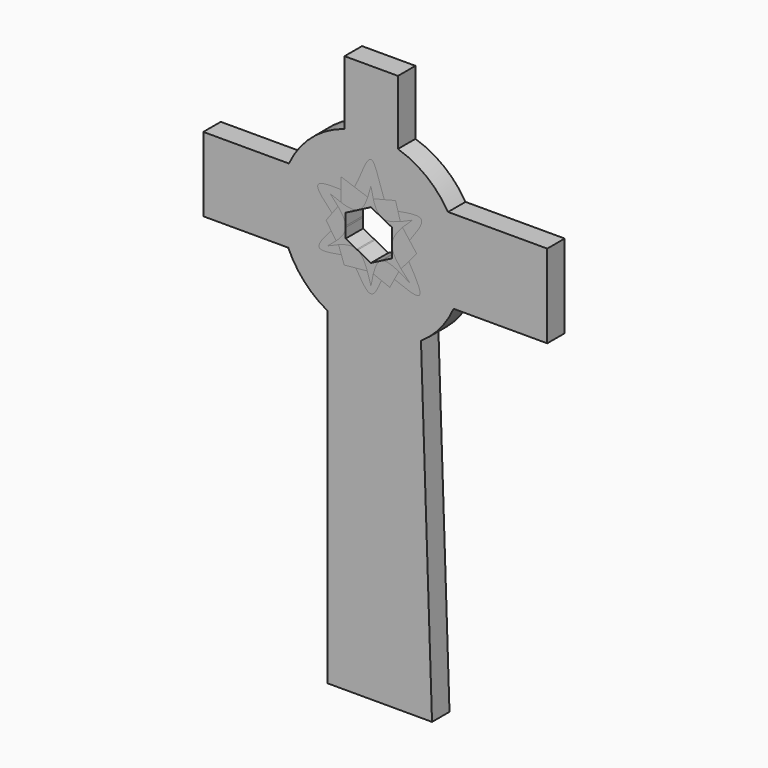
from build123d import *

# Parameters (mm, degrees)
F1_DEPTH = 25.4
F2_DEPTH = 25.4
F3_DEPTH = 25.4
F4_DEPTH = 25.4
F5_DEPTH = 25.4
F6_DEPTH = 25.4


with BuildPart() as f1:
    # F0 (on Front) → F1 (new body)
    with BuildSketch(Plane.XZ):
        with BuildLine():
            add(Edge.make_bspline(
                [(-14.3541514897, 22.9528504084), (-14.4686807611, 22.8912923505), (-14.5841696294, 22.8316425943), (-14.7006325424, 22.7739298716)],
                knots=[0.4904136103, 0.4904136103, 0.4904136103, 0.4904136103, 0.4977973905, 0.4977973905, 0.4977973905, 0.4977973905], degree=3))
            Line((-14.3541514897, 22.9528504084), (-14.7006325424, 22.7739298716))
        make_face()
    extrude(amount=F1_DEPTH)


with BuildPart() as f2:
    # F0 (on Front) → F2 (new body)
    with BuildSketch(Plane.XZ):
        with BuildLine():
            Line((-29.4012650847, 15.1826199144), (-14.7006325424, 22.7739298716))
            add(Edge.make_bspline(
                [(-14.7006325424, 22.7739298716), (-19.9444261162, 20.1753893006), (-27.1628908306, 21.5037773556), (-35.0487951516, 24.1594687999)],
                knots=[0.4977973905, 0.4977973905, 0.4977973905, 0.4977973905, 0.8302553244, 0.8302553244, 0.8302553244, 0.8302553244], degree=3))
            add(Edge.make_bspline(
                [(-35.0487951516, 24.1594687999), (-39.0751399435, 25.5153981874), (-43.2754773814, 27.21733795), (-47.4758148193, 28.9192777127)],
                knots=[0.8302553244, 0.8302553244, 0.8302553244, 0.8302553244, 1, 1, 1, 1], degree=3))
            Line((-47.4758148193, 28.9192777127), (-29.4012650847, 15.1826199144))
        make_face()
        with BuildLine():
            Line((-29.4012650847, 1.6883769382), (-29.4012650847, 15.1826199144))
            Line((-29.4012650847, 15.1826199144), (-47.4758148193, 28.9192777127))
            add(Edge.make_bspline(
                [(-47.4758148193, 28.9192777127), (-44.2861309223, 25.5435309565), (-41.0964470253, 22.1677842002), (-38.3029241266, 18.8206944698)],
                knots=[0, 0, 0, 0, 0.1717578247, 0.1717578247, 0.1717578247, 0.1717578247], degree=3))
            add(Edge.make_bspline(
                [(-38.3029241266, 18.8206944698), (-33.4210481018, 12.9714218129), (-29.7490477341, 7.2096677105), (-29.4012650847, 1.6883769382)],
                knots=[0.1717578247, 0.1717578247, 0.1717578247, 0.1717578247, 0.4719165981, 0.4719165981, 0.4719165981, 0.4719165981], degree=3))
        make_face()
    extrude(amount=F2_DEPTH)


with BuildPart() as f2b:
    # F0 (on Front) → F2, piece 2 (new body)
    with BuildSketch(Plane.XZ):
        with BuildLine():
            Line((-14.3541514897, 22.9528504084), (0, 30.3652398288))
            Line((0, 30.3652398288), (0, 52.0546995103))
            add(Edge.make_bspline(
                [(0, 52.0546995103), (-1.1650013965, 47.7359081555), (-2.330002793, 43.4171168006), (-3.6693131497, 39.4449648589)],
                knots=[0, 0, 0, 0, 0.1693493954, 0.1693493954, 0.1693493954, 0.1693493954], degree=3))
            add(Edge.make_bspline(
                [(-3.6693131497, 39.4449648589), (-6.2084697081, 31.9142863992), (-9.3741481087, 25.6295402402), (-14.3541514897, 22.9528504084)],
                knots=[0.1693493954, 0.1693493954, 0.1693493954, 0.1693493954, 0.4904136103, 0.4904136103, 0.4904136103, 0.4904136103], degree=3))
        make_face()
        with BuildLine():
            Line((0, 52.0546995103), (0, 30.3652398288))
            Line((0, 30.3652398288), (11.9434328738, 24.1674610285))
            add(Edge.make_bspline(
                [(11.9434328738, 24.1674610285), (7.3307553997, 26.678976369), (4.6895163407, 32.6808245186), (2.7317281674, 39.8926881733)],
                knots=[0.5312967327, 0.5312967327, 0.5312967327, 0.5312967327, 0.8375117068, 0.8375117068, 0.8375117068, 0.8375117068], degree=3))
            add(Edge.make_bspline(
                [(2.7317281674, 39.8926881733), (1.692857813, 43.719553333), (0.8464289065, 47.8871264217), (0, 52.0546995103)],
                knots=[0.8375117068, 0.8375117068, 0.8375117068, 0.8375117068, 1, 1, 1, 1], degree=3))
        make_face()
    extrude(amount=F2_DEPTH)


with BuildPart() as f2c:
    # F0 (on Front) → F2, piece 3 (new body)
    with BuildSketch(Plane.XZ):
        with BuildLine():
            add(Edge.make_bspline(
                [(34.2077691655, 26.6563102377), (25.4806952544, 23.2378498819), (17.620886364, 21.3548387355), (12.3067991856, 23.9789001644)],
                knots=[0.1782907306, 0.1782907306, 0.1782907306, 0.1782907306, 0.5233447369, 0.5233447369, 0.5233447369, 0.5233447369], degree=3))
            Line((12.3067991856, 23.9789001644), (24.6135983711, 17.5925604999))
            Line((24.6135983711, 17.5925604999), (48.1987968087, 32.775182277))
            add(Edge.make_bspline(
                [(48.1987968087, 32.775182277), (43.4579392958, 30.5989120567), (38.7170817828, 28.4226418365), (34.2077691655, 26.6563102377)],
                knots=[0, 0, 0, 0, 0.1782907306, 0.1782907306, 0.1782907306, 0.1782907306], degree=3))
        make_face()
        with BuildLine():
            Line((48.1987968087, 32.775182277), (24.6135983711, 17.5925604999))
            Line((24.6135983711, 17.5925604999), (24.6135983711, 0))
            add(Edge.make_bspline(
                [(24.6135983711, 0), (24.82150376, 7.259912527), (29.9488979857, 14.4628240646), (36.7526425482, 21.6463121151)],
                knots=[0.4942301209, 0.4942301209, 0.4942301209, 0.4942301209, 0.8276553652, 0.8276553652, 0.8276553652, 0.8276553652], degree=3))
            add(Edge.make_bspline(
                [(36.7526425482, 21.6463121151), (40.2694394684, 25.3593951712), (44.2341181386, 29.0672887241), (48.1987968087, 32.775182277)],
                knots=[0.8276553652, 0.8276553652, 0.8276553652, 0.8276553652, 1, 1, 1, 1], degree=3))
        make_face()
    extrude(amount=F2_DEPTH)


with BuildPart() as f2d:
    # F0 (on Front) → F2, piece 4 (new body)
    with BuildSketch(Plane.XZ):
        with BuildLine():
            add(Edge.make_bspline(
                [(35.0042778288, -21.4152859602), (29.1731486489, -14.5593156815), (24.8060536411, -7.720308831), (24.6135983711, -0.9296725743)],
                knots=[0.1683355047, 0.1683355047, 0.1683355047, 0.1683355047, 0.4800025168, 0.4800025168, 0.4800025168, 0.4800025168], degree=3))
            Line((24.6135983711, -0.9296725743), (24.6135983711, -14.040031432))
            Line((24.6135983711, -14.040031432), (45.3068725765, -32.534185797))
            add(Edge.make_bspline(
                [(45.3068725765, -32.534185797), (41.7303104737, -28.8262363141), (38.153748371, -25.1182868311), (35.0042778288, -21.4152859602)],
                knots=[0, 0, 0, 0, 0.1683355047, 0.1683355047, 0.1683355047, 0.1683355047], degree=3))
        make_face()
        with BuildLine():
            Line((45.3068725765, -32.534185797), (24.6135983711, -14.040031432))
            Line((24.6135983711, -14.040031432), (12.3067991856, -20.3951815883))
            add(Edge.make_bspline(
                [(12.3067991856, -20.3951815883), (17.285669054, -18.2054166072), (24.4926682322, -20.8035214645), (32.4619454299, -25.0396317651)],
                knots=[0.4897788647, 0.4897788647, 0.4897788647, 0.4897788647, 0.8254453389, 0.8254453389, 0.8254453389, 0.8254453389], degree=3))
            add(Edge.make_bspline(
                [(32.4619454299, -25.0396317651), (36.6061617493, -27.2425112739), (40.9565171629, -29.8883485354), (45.3068725765, -32.534185797)],
                knots=[0.8254453389, 0.8254453389, 0.8254453389, 0.8254453389, 1, 1, 1, 1], degree=3))
        make_face()
    extrude(amount=F2_DEPTH)


with BuildPart() as f2e:
    # F0 (on Front) → F2, piece 5 (new body)
    with BuildSketch(Plane.XZ):
        with BuildLine():
            add(Edge.make_bspline(
                [(2.7670513015, -37.0754344111), (4.6546604564, -29.5784432766), (7.1527679539, -23.3933089485), (11.361242188, -20.8834610028)],
                knots=[0.1670125865, 0.1670125865, 0.1670125865, 0.1670125865, 0.4679009795, 0.4679009795, 0.4679009795, 0.4679009795], degree=3))
            Line((11.361242188, -20.8834610028), (0, -26.7503317446))
            Line((0, -26.7503317446), (0, -50.3677427769))
            add(Edge.make_bspline(
                [(0, -50.3677427769), (0.8596528553, -45.8022469195), (1.7193057105, -41.2367510621), (2.7670513015, -37.0754344111)],
                knots=[0, 0, 0, 0, 0.1670125865, 0.1670125865, 0.1670125865, 0.1670125865], degree=3))
        make_face()
        with BuildLine():
            Line((0, -26.7503317446), (-15.5185673604, -18.6094434251))
            add(Edge.make_bspline(
                [(-15.5185673604, -18.6094434251), (-10.4321918885, -21.5697741686), (-7.0410781826, -28.2569110209), (-4.2533897312, -36.2705975361)],
                knots=[0.5150559291, 0.5150559291, 0.5150559291, 0.5150559291, 0.8273850651, 0.8273850651, 0.8273850651, 0.8273850651], degree=3))
            add(Edge.make_bspline(
                [(-4.2533897312, -36.2705975361), (-2.7127180324, -40.6995214394), (-1.3563590162, -45.5336321081), (0, -50.3677427769)],
                knots=[0.8273850651, 0.8273850651, 0.8273850651, 0.8273850651, 1, 1, 1, 1], degree=3))
            Line((0, -50.3677427769), (0, -26.7503317446))
        make_face()
    extrude(amount=F2_DEPTH)


with BuildPart() as f2f:
    # F0 (on Front) → F2, piece 6 (new body)
    with BuildSketch(Plane.XZ):
        with BuildLine():
            Line((-16.4913525108, -18.0991298708), (-29.4012650847, -11.3267162815))
            Line((-29.4012650847, -11.3267162815), (-50.6087355316, -25.7863570005))
            add(Edge.make_bspline(
                [(-50.6087355316, -25.7863570005), (-46.2356342425, -23.8075734863), (-41.8625329534, -21.8287899721), (-37.6643158083, -20.234465843)],
                knots=[0, 0, 0, 0, 0.1686177438, 0.1686177438, 0.1686177438, 0.1686177438], degree=3))
            add(Edge.make_bspline(
                [(-37.6643158083, -20.234465843), (-29.5242642973, -17.1431820701), (-22.0416812802, -15.4972547894), (-16.4913525108, -18.0991298708)],
                knots=[0.1686177438, 0.1686177438, 0.1686177438, 0.1686177438, 0.4955558398, 0.4955558398, 0.4955558398, 0.4955558398], degree=3))
        make_face()
        with BuildLine():
            Line((-29.4012650847, -11.3267162815), (-29.4012650847, 0))
            add(Edge.make_bspline(
                [(-29.4012650847, 0), (-29.7891119056, -5.9736979278), (-34.3991082596, -11.6419789958), (-40.4486888433, -17.2061251223)],
                knots=[0.5026522156, 0.5026522156, 0.5026522156, 0.5026522156, 0.8304242847, 0.8304242847, 0.8304242847, 0.8304242847], degree=3))
            add(Edge.make_bspline(
                [(-40.4486888433, -17.2061251223), (-43.5784916887, -20.0847842521), (-47.0936136101, -22.9355706263), (-50.6087355316, -25.7863570005)],
                knots=[0.8304242847, 0.8304242847, 0.8304242847, 0.8304242847, 1, 1, 1, 1], degree=3))
            Line((-50.6087355316, -25.7863570005), (-29.4012650847, -11.3267162815))
        make_face()
    extrude(amount=F2_DEPTH)


with BuildPart() as f3:
    # F0 (on Front) → F3 (new body)
    with BuildSketch(Plane.XZ):
        with BuildLine():
            Line((-14.7006325424, 22.7739298716), (-14.3541514897, 22.9528504084))
            add(Edge.make_bspline(
                [(-3.6693131497, 39.4449648589), (-6.2084697081, 31.9142863992), (-9.3741481087, 25.6295402402), (-14.3541514897, 22.9528504084)],
                knots=[0.1693493954, 0.1693493954, 0.1693493954, 0.1693493954, 0.4904136103, 0.4904136103, 0.4904136103, 0.4904136103], degree=3))
            Line((-3.6693131497, 39.4449648589), (-19.2366406388, 44.863743312))
            Line((-19.2366406388, 44.863743312), (-35.0487951516, 50.3677427769))
            Line((-35.0487951516, 50.3677427769), (-35.0487951516, 37.1258507452))
            Line((-35.0487951516, 37.1258507452), (-35.0487951516, 24.1594687999))
            add(Edge.make_bspline(
                [(-14.7006325424, 22.7739298716), (-19.9444261162, 20.1753893006), (-27.1628908306, 21.5037773556), (-35.0487951516, 24.1594687999)],
                knots=[0.4977973905, 0.4977973905, 0.4977973905, 0.4977973905, 0.8302553244, 0.8302553244, 0.8302553244, 0.8302553244], degree=3))
        make_face()
    extrude(amount=F3_DEPTH)


with BuildPart() as f3b:
    # F0 (on Front) → F3, piece 2 (new body)
    with BuildSketch(Plane.XZ):
        with BuildLine():
            add(Edge.make_bspline(
                [(11.9434328738, 24.1674610285), (7.3307553997, 26.678976369), (4.6895163407, 32.6808245186), (2.7317281674, 39.8926881733)],
                knots=[0.5312967327, 0.5312967327, 0.5312967327, 0.5312967327, 0.8375117068, 0.8375117068, 0.8375117068, 0.8375117068], degree=3))
            Line((11.9434328738, 24.1674610285), (12.3067991856, 23.9789001644))
            add(Edge.make_bspline(
                [(34.2077691655, 26.6563102377), (25.4806952544, 23.2378498819), (17.620886364, 21.3548387355), (12.3067991856, 23.9789001644)],
                knots=[0.1782907306, 0.1782907306, 0.1782907306, 0.1782907306, 0.5233447369, 0.5233447369, 0.5233447369, 0.5233447369], degree=3))
            Line((34.2077691655, 26.6563102377), (31.4805155873, 36.4494577728))
            Line((31.4805155873, 36.4494577728), (28.678284958, 46.51183635))
            Line((28.678284958, 46.51183635), (15.5806312819, 43.1705332573))
            Line((15.5806312819, 43.1705332573), (2.7317281674, 39.8926881733))
        make_face()
    extrude(amount=F3_DEPTH)


with BuildPart() as f3c:
    # F0 (on Front) → F3, piece 3 (new body)
    with BuildSketch(Plane.XZ):
        with BuildLine():
            add(Edge.make_bspline(
                [(24.6135983711, 0), (24.82150376, 7.259912527), (29.9488979857, 14.4628240646), (36.7526425482, 21.6463121151)],
                knots=[0.4942301209, 0.4942301209, 0.4942301209, 0.4942301209, 0.8276553652, 0.8276553652, 0.8276553652, 0.8276553652], degree=3))
            Line((24.6135983711, 0), (24.6135983711, -0.9296725743))
            add(Edge.make_bspline(
                [(35.0042778288, -21.4152859602), (29.1731486489, -14.5593156815), (24.8060536411, -7.720308831), (24.6135983711, -0.9296725743)],
                knots=[0.1683355047, 0.1683355047, 0.1683355047, 0.1683355047, 0.4800025168, 0.4800025168, 0.4800025168, 0.4800025168], degree=3))
            Line((35.0042778288, -21.4152859602), (44.0329095184, -10.8238552272))
            Line((44.0329095184, -10.8238552272), (53.2596707344, 0))
            Line((53.2596707344, 0), (44.9117766353, 10.9469202533))
            Line((44.9117766353, 10.9469202533), (36.7526425482, 21.6463121151))
        make_face()
    extrude(amount=F3_DEPTH)


with BuildPart() as f3d:
    # F0 (on Front) → F3, piece 4 (new body)
    with BuildSketch(Plane.XZ):
        with BuildLine():
            Line((-29.4012650847, 0), (-29.4012650847, 1.6883769382))
            add(Edge.make_bspline(
                [(-38.3029241266, 18.8206944698), (-33.4210481018, 12.9714218129), (-29.7490477341, 7.2096677105), (-29.4012650847, 1.6883769382)],
                knots=[0.1717578247, 0.1717578247, 0.1717578247, 0.1717578247, 0.4719165981, 0.4719165981, 0.4719165981, 0.4719165981], degree=3))
            Line((-38.3029241266, 18.8206944698), (-45.1606447507, 9.520048509))
            Line((-45.1606447507, 9.520048509), (-52.1801392329, 0))
            Line((-52.1801392329, 0), (-46.2396954527, -8.7126498063))
            Line((-46.2396954527, -8.7126498063), (-40.4486888433, -17.2061251223))
            add(Edge.make_bspline(
                [(-29.4012650847, 0), (-29.7891119056, -5.9736979278), (-34.3991082596, -11.6419789958), (-40.4486888433, -17.2061251223)],
                knots=[0.5026522156, 0.5026522156, 0.5026522156, 0.5026522156, 0.8304242847, 0.8304242847, 0.8304242847, 0.8304242847], degree=3))
        make_face()
    extrude(amount=F3_DEPTH)


with BuildPart() as f3e:
    # F0 (on Front) → F3, piece 5 (new body)
    with BuildSketch(Plane.XZ):
        with BuildLine():
            Line((-15.5185673604, -18.6094434251), (-16.4913525108, -18.0991298708))
            add(Edge.make_bspline(
                [(-37.6643158083, -20.234465843), (-29.5242642973, -17.1431820701), (-22.0416812802, -15.4972547894), (-16.4913525108, -18.0991298708)],
                knots=[0.1686177438, 0.1686177438, 0.1686177438, 0.1686177438, 0.4955558398, 0.4955558398, 0.4955558398, 0.4955558398], degree=3))
            Line((-37.6643158083, -20.234465843), (-34.4223591007, -29.5059366823))
            Line((-34.4223591007, -29.5059366823), (-31.0882236809, -39.0410237014))
            Line((-31.0882236809, -39.0410237014), (-17.5260011398, -37.6408609034))
            Line((-17.5260011398, -37.6408609034), (-4.2533897312, -36.2705975361))
            add(Edge.make_bspline(
                [(-15.5185673604, -18.6094434251), (-10.4321918885, -21.5697741686), (-7.0410781826, -28.2569110209), (-4.2533897312, -36.2705975361)],
                knots=[0.5150559291, 0.5150559291, 0.5150559291, 0.5150559291, 0.8273850651, 0.8273850651, 0.8273850651, 0.8273850651], degree=3))
        make_face()
    extrude(amount=F3_DEPTH)


with BuildPart() as f3f:
    # F0 (on Front) → F3, piece 6 (new body)
    with BuildSketch(Plane.XZ):
        with BuildLine():
            add(Edge.make_bspline(
                [(12.3067991856, -20.3951815883), (17.285669054, -18.2054166072), (24.4926682322, -20.8035214645), (32.4619454299, -25.0396317651)],
                knots=[0.4897788647, 0.4897788647, 0.4897788647, 0.4897788647, 0.8254453389, 0.8254453389, 0.8254453389, 0.8254453389], degree=3))
            Line((12.3067991856, -20.3951815883), (11.361242188, -20.8834610028))
            add(Edge.make_bspline(
                [(2.7670513015, -37.0754344111), (4.6546604564, -29.5784432766), (7.1527679539, -23.3933089485), (11.361242188, -20.8834610028)],
                knots=[0.1670125865, 0.1670125865, 0.1670125865, 0.1670125865, 0.4679009795, 0.4679009795, 0.4679009795, 0.4679009795], degree=3))
            Line((2.7670513015, -37.0754344111), (12.2257284872, -40.7814589471))
            Line((12.2257284872, -40.7814589471), (21.9304505736, -44.5838868618))
            Line((21.9304505736, -44.5838868618), (27.2606437933, -34.692161383))
            Line((27.2606437933, -34.692161383), (32.4619454299, -25.0396317651))
        make_face()
    extrude(amount=F3_DEPTH)


with BuildPart() as f4:
    # F0 (on Front) → F4 (new body)
    with BuildSketch(Plane.XZ):
        with BuildLine():
            add(Edge.make_bspline(
                [(0, 52.0546995103), (-1.1650013965, 47.7359081555), (-2.330002793, 43.4171168006), (-3.6693131497, 39.4449648589)],
                knots=[0, 0, 0, 0, 0.1693493954, 0.1693493954, 0.1693493954, 0.1693493954], degree=3))
            add(Edge.make_bspline(
                [(2.7317281674, 39.8926881733), (1.692857813, 43.719553333), (0.8464289065, 47.8871264217), (0, 52.0546995103)],
                knots=[0.8375117068, 0.8375117068, 0.8375117068, 0.8375117068, 1, 1, 1, 1], degree=3))
            Line((2.7317281674, 39.8926881733), (15.5806312819, 43.1705332573))
            add(Edge.make_bspline(
                [(-19.2366406388, 44.863743312), (-12.5903845261, 55.5695504722), (0.9683106375, 103.599201508), (10.6247511907, 54.4881260699), (15.5806312819, 43.1705332573)],
                knots=[0, 0, 0, 0, 0.5003124425, 1, 1, 1, 1], degree=3))
            Line((-19.2366406388, 44.863743312), (-3.6693131497, 39.4449648589))
        make_face()
    extrude(amount=F4_DEPTH)


with BuildPart() as f4b:
    # F0 (on Front) → F4, piece 2 (new body)
    with BuildSketch(Plane.XZ):
        with BuildLine():
            add(Edge.make_bspline(
                [(-35.0487951516, 24.1594687999), (-39.0751399435, 25.5153981874), (-43.2754773814, 27.21733795), (-47.4758148193, 28.9192777127)],
                knots=[0.8302553244, 0.8302553244, 0.8302553244, 0.8302553244, 1, 1, 1, 1], degree=3))
            Line((-35.0487951516, 24.1594687999), (-35.0487951516, 37.1258507452))
            add(Edge.make_bspline(
                [(-45.1606447507, 9.520048509), (-54.4172971994, 19.1058327888), (-72.6044226805, 37.9396242159), (-47.4167605042, 37.3938457902), (-35.0487951516, 37.1258507452)],
                knots=[0, 0, 0, 0, 0.5089673164, 1, 1, 1, 1], degree=3))
            Line((-45.1606447507, 9.520048509), (-38.3029241266, 18.8206944698))
            add(Edge.make_bspline(
                [(-47.4758148193, 28.9192777127), (-44.2861309223, 25.5435309565), (-41.0964470253, 22.1677842002), (-38.3029241266, 18.8206944698)],
                knots=[0, 0, 0, 0, 0.1717578247, 0.1717578247, 0.1717578247, 0.1717578247], degree=3))
        make_face()
    extrude(amount=F4_DEPTH)


with BuildPart() as f4c:
    # F0 (on Front) → F4, piece 3 (new body)
    with BuildSketch(Plane.XZ):
        with BuildLine():
            add(Edge.make_bspline(
                [(-40.4486888433, -17.2061251223), (-43.5784916887, -20.0847842521), (-47.0936136101, -22.9355706263), (-50.6087355316, -25.7863570005)],
                knots=[0.8304242847, 0.8304242847, 0.8304242847, 0.8304242847, 1, 1, 1, 1], degree=3))
            Line((-40.4486888433, -17.2061251223), (-46.2396954527, -8.7126498063))
            add(Edge.make_bspline(
                [(-46.2396954527, -8.7126498063), (-54.2250938202, -17.8051694894), (-70.2038230956, -35.9992411891), (-46.3534605536, -31.6710877462), (-34.4223591007, -29.5059366823)],
                knots=[0, 0, 0, 0, 0.4997517781, 1, 1, 1, 1], degree=3))
            Line((-34.4223591007, -29.5059366823), (-37.6643158083, -20.234465843))
            add(Edge.make_bspline(
                [(-50.6087355316, -25.7863570005), (-46.2356342425, -23.8075734863), (-41.8625329534, -21.8287899721), (-37.6643158083, -20.234465843)],
                knots=[0, 0, 0, 0, 0.1686177438, 0.1686177438, 0.1686177438, 0.1686177438], degree=3))
        make_face()
    extrude(amount=F4_DEPTH)


with BuildPart() as f4d:
    # F0 (on Front) → F4, piece 4 (new body)
    with BuildSketch(Plane.XZ):
        with BuildLine():
            add(Edge.make_bspline(
                [(-4.2533897312, -36.2705975361), (-2.7127180324, -40.6995214394), (-1.3563590162, -45.5336321081), (0, -50.3677427769)],
                knots=[0.8273850651, 0.8273850651, 0.8273850651, 0.8273850651, 1, 1, 1, 1], degree=3))
            Line((-4.2533897312, -36.2705975361), (-17.5260011398, -37.6408609034))
            add(Edge.make_bspline(
                [(-17.5260011398, -37.6408609034), (-11.3521255203, -48.1028608341), (-5.1782499008, -58.5648607648), (0, -58.3205446601)],
                knots=[0, 0, 0, 0, 0.5296362302, 0.5296362302, 0.5296362302, 0.5296362302], degree=3))
            add(Edge.make_bspline(
                [(0, -58.3205446601), (4.5987434498, -58.1035703719), (8.4122359685, -49.4425146595), (12.2257284872, -40.7814589471)],
                knots=[0.5296362302, 0.5296362302, 0.5296362302, 0.5296362302, 1, 1, 1, 1], degree=3))
            Line((12.2257284872, -40.7814589471), (2.7670513015, -37.0754344111))
            add(Edge.make_bspline(
                [(0, -50.3677427769), (0.8596528553, -45.8022469195), (1.7193057105, -41.2367510621), (2.7670513015, -37.0754344111)],
                knots=[0, 0, 0, 0, 0.1670125865, 0.1670125865, 0.1670125865, 0.1670125865], degree=3))
        make_face()
    extrude(amount=F4_DEPTH)


with BuildPart() as f4e:
    # F0 (on Front) → F4, piece 5 (new body)
    with BuildSketch(Plane.XZ):
        with BuildLine():
            Line((44.0329095184, -10.8238552272), (35.0042778288, -21.4152859602))
            add(Edge.make_bspline(
                [(45.3068725765, -32.534185797), (41.7303104737, -28.8262363141), (38.153748371, -25.1182868311), (35.0042778288, -21.4152859602)],
                knots=[0, 0, 0, 0, 0.1683355047, 0.1683355047, 0.1683355047, 0.1683355047], degree=3))
            add(Edge.make_bspline(
                [(32.4619454299, -25.0396317651), (36.6061617493, -27.2425112739), (40.9565171629, -29.8883485354), (45.3068725765, -32.534185797)],
                knots=[0.8254453389, 0.8254453389, 0.8254453389, 0.8254453389, 1, 1, 1, 1], degree=3))
            Line((32.4619454299, -25.0396317651), (27.2606437933, -34.692161383))
            add(Edge.make_bspline(
                [(27.2606437933, -34.692161383), (40.2944884008, -39.862753536), (67.0254741801, -50.4670709475), (51.8228426126, -24.2550666925), (44.0329095184, -10.8238552272)],
                knots=[0, 0, 0, 0, 0.4875931144, 1, 1, 1, 1], degree=3))
        make_face()
    extrude(amount=F4_DEPTH)


with BuildPart() as f4f:
    # F0 (on Front) → F4, piece 6 (new body)
    with BuildSketch(Plane.XZ):
        with BuildLine():
            Line((31.4805155873, 36.4494577728), (34.2077691655, 26.6563102377))
            add(Edge.make_bspline(
                [(48.1987968087, 32.775182277), (43.4579392958, 30.5989120567), (38.7170817828, 28.4226418365), (34.2077691655, 26.6563102377)],
                knots=[0, 0, 0, 0, 0.1782907306, 0.1782907306, 0.1782907306, 0.1782907306], degree=3))
            add(Edge.make_bspline(
                [(36.7526425482, 21.6463121151), (40.2694394684, 25.3593951712), (44.2341181386, 29.0672887241), (48.1987968087, 32.775182277)],
                knots=[0.8276553652, 0.8276553652, 0.8276553652, 0.8276553652, 1, 1, 1, 1], degree=3))
            Line((36.7526425482, 21.6463121151), (44.9117766353, 10.9469202533))
            add(Edge.make_bspline(
                [(44.9117766353, 10.9469202533), (53.0148416225, 21.8288645052), (68.9087066726, 43.1733994059), (43.7920915404, 38.6612215722), (31.4805155873, 36.4494577728)],
                knots=[0, 0, 0, 0, 0.509823442, 1, 1, 1, 1], degree=3))
        make_face()
    extrude(amount=F4_DEPTH)


with BuildPart() as f5:
    # F0 (on Front) → F5 (new body)
    with BuildSketch(Plane.XZ):
        with BuildLine():
            Line((-35.0487951516, 50.3677427769), (-19.2366406388, 44.863743312))
            add(Edge.make_bspline(
                [(-19.2366406388, 44.863743312), (-12.5903845261, 55.5695504722), (0.9683106375, 103.599201508), (10.6247511907, 54.4881260699), (15.5806312819, 43.1705332573)],
                knots=[0, 0, 0, 0, 0.5003124425, 1, 1, 1, 1], degree=3))
            Line((15.5806312819, 43.1705332573), (28.678284958, 46.51183635))
            Line((28.678284958, 46.51183635), (31.4805155873, 36.4494577728))
            add(Edge.make_bspline(
                [(44.9117766353, 10.9469202533), (53.0148416225, 21.8288645052), (68.9087066726, 43.1733994059), (43.7920915404, 38.6612215722), (31.4805155873, 36.4494577728)],
                knots=[0, 0, 0, 0, 0.509823442, 1, 1, 1, 1], degree=3))
            Line((44.9117766353, 10.9469202533), (53.2596707344, 0))
            Line((53.2596707344, 0), (105.1094032783, 0))
            ThreePointArc((105.1094032783, 0), (101.201401579, 28.3947702218), (89.7679980224, 54.6780869139))
            ThreePointArc((89.7679980224, 54.6780869139), (64.7710181531, 82.7810477399), (31.4805155873, 100.2844145212))
            ThreePointArc((31.4805155873, 100.2844145212), (0.4256288945, 105.1085415062), (-30.6673085663, 100.5360773196))
            ThreePointArc((-30.6673085663, 100.5360773196), (-69.0728611743, 79.2270566581), (-95.417777286, 44.0844012696))
            ThreePointArc((-95.417777286, 44.0844012696), (-102.6579083417, 22.5685735575), (-105.1094032783, 0))
            Line((-105.1094032783, 0), (-52.1801392329, 0))
            Line((-52.1801392329, 0), (-45.1606447507, 9.520048509))
            add(Edge.make_bspline(
                [(-45.1606447507, 9.520048509), (-54.4172971994, 19.1058327888), (-72.6044226805, 37.9396242159), (-47.4167605042, 37.3938457902), (-35.0487951516, 37.1258507452)],
                knots=[0, 0, 0, 0, 0.5089673164, 1, 1, 1, 1], degree=3))
            Line((-35.0487951516, 37.1258507452), (-35.0487951516, 50.3677427769))
        make_face()
        with BuildLine():
            Line((-46.2396954527, -8.7126498063), (-52.1801392329, 0))
            Line((-52.1801392329, 0), (-105.1094032783, 0))
            ThreePointArc((-105.1094032783, 0), (-102.8548156558, -21.6534882624), (-96.1877742079, -42.3780456185))
            ThreePointArc((-96.1877742079, -42.3780456185), (-77.3636173781, -71.1537586055), (-50.2597610855, -92.3143708918))
            ThreePointArc((-50.2597610855, -92.3143708918), (-25.9314309195, -101.8604317092), (0, -105.1094032783))
            Line((0, -105.1094032783), (0, -58.3205446601))
            add(Edge.make_bspline(
                [(-17.5260011398, -37.6408609034), (-11.3521255203, -48.1028608341), (-5.1782499008, -58.5648607648), (0, -58.3205446601)],
                knots=[0, 0, 0, 0, 0.5296362302, 0.5296362302, 0.5296362302, 0.5296362302], degree=3))
            Line((-17.5260011398, -37.6408609034), (-31.0882236809, -39.0410237014))
            Line((-31.0882236809, -39.0410237014), (-34.4223591007, -29.5059366823))
            add(Edge.make_bspline(
                [(-46.2396954527, -8.7126498063), (-54.2250938202, -17.8051694894), (-70.2038230956, -35.9992411891), (-46.3534605536, -31.6710877462), (-34.4223591007, -29.5059366823)],
                knots=[0, 0, 0, 0, 0.4997517781, 1, 1, 1, 1], degree=3))
        make_face()
        with BuildLine():
            Line((105.1094032783, 0), (53.2596707344, 0))
            Line((53.2596707344, 0), (44.0329095184, -10.8238552272))
            add(Edge.make_bspline(
                [(27.2606437933, -34.692161383), (40.2944884008, -39.862753536), (67.0254741801, -50.4670709475), (51.8228426126, -24.2550666925), (44.0329095184, -10.8238552272)],
                knots=[0, 0, 0, 0, 0.4875931144, 1, 1, 1, 1], degree=3))
            Line((27.2606437933, -34.692161383), (21.9304505736, -44.5838868618))
            Line((21.9304505736, -44.5838868618), (12.2257284872, -40.7814589471))
            add(Edge.make_bspline(
                [(0, -58.3205446601), (4.5987434498, -58.1035703719), (8.4122359685, -49.4425146595), (12.2257284872, -40.7814589471)],
                knots=[0.5296362302, 0.5296362302, 0.5296362302, 0.5296362302, 1, 1, 1, 1], degree=3))
            Line((0, -58.3205446601), (0, -105.1094032783))
            ThreePointArc((0, -105.1094032783), (30.4195046664, -100.6113333246), (58.2354542621, -87.5021058284))
            ThreePointArc((58.2354542621, -87.5021058284), (80.4405281884, -67.6558059762), (96.1877742079, -42.3780456185))
            ThreePointArc((96.1877742079, -42.3780456185), (102.8548156558, -21.6534882624), (105.1094032783, 0))
        make_face()
    extrude(amount=F5_DEPTH)

    # F0 (on Front) → F6 (join)
    with BuildSketch(Plane.XZ):
        with BuildLine():
            Line((-30.6673085663, 175.1123569729), (-30.6673085663, 100.5360773196))
            ThreePointArc((-30.6673085663, 100.5360773196), (0.4256288945, 105.1085415062), (31.4805155873, 100.2844145212))
            Line((31.4805155873, 100.2844145212), (31.4805155873, 175.1123569729))
            Line((31.4805155873, 175.1123569729), (-30.6673085663, 175.1123569729))
        make_face()
        with BuildLine():
            ThreePointArc((-96.1877742079, -42.3780456185), (-102.8548156558, -21.6534882624), (-105.1094032783, 0))
            ThreePointArc((-105.1094032783, 0), (-102.6579083417, 22.5685735575), (-95.417777286, 44.0844012696))
            Line((-95.417777286, 44.0844012696), (-195.0404497488, 44.0844012696))
            Line((-195.0404497488, 44.0844012696), (-195.0404497488, -42.3780456185))
            Line((-195.0404497488, -42.3780456185), (-96.1877742079, -42.3780456185))
        make_face()
        with BuildLine():
            ThreePointArc((89.7679980224, 54.6780869139), (101.201401579, 28.3947702218), (105.1094032783, 0))
            ThreePointArc((105.1094032783, 0), (102.8548156558, -21.6534882624), (96.1877742079, -42.3780456185))
            Line((96.1877742079, -42.3780456185), (205.1419390403, -42.3780456185))
            Line((205.1419390403, -42.3780456185), (205.1419390403, 54.6780869139))
            Line((205.1419390403, 54.6780869139), (89.7679980224, 54.6780869139))
        make_face()
        with BuildLine():
            ThreePointArc((0, -105.1094032783), (-25.9314309195, -101.8604317092), (-50.2597610855, -92.3143708918))
            Line((-50.2597610855, -92.3143708918), (-50.2597610855, -473.7602537797))
            Line((-50.2597610855, -473.7602537797), (71.0941627622, -473.7602537797))
            Line((71.0941627622, -473.7602537797), (58.2354542621, -87.5021058284))
            ThreePointArc((58.2354542621, -87.5021058284), (30.4195046664, -100.6113333246), (0, -105.1094032783))
        make_face()
    extrude(amount=F6_DEPTH)


solid = Compound([f1.part, f2.part, f2b.part, f2c.part, f2d.part, f2e.part, f2f.part, f3.part, f3b.part, f3c.part, f3d.part, f3e.part, f3f.part, f4.part, f4b.part, f4c.part, f4d.part, f4e.part, f4f.part, f5.part])
